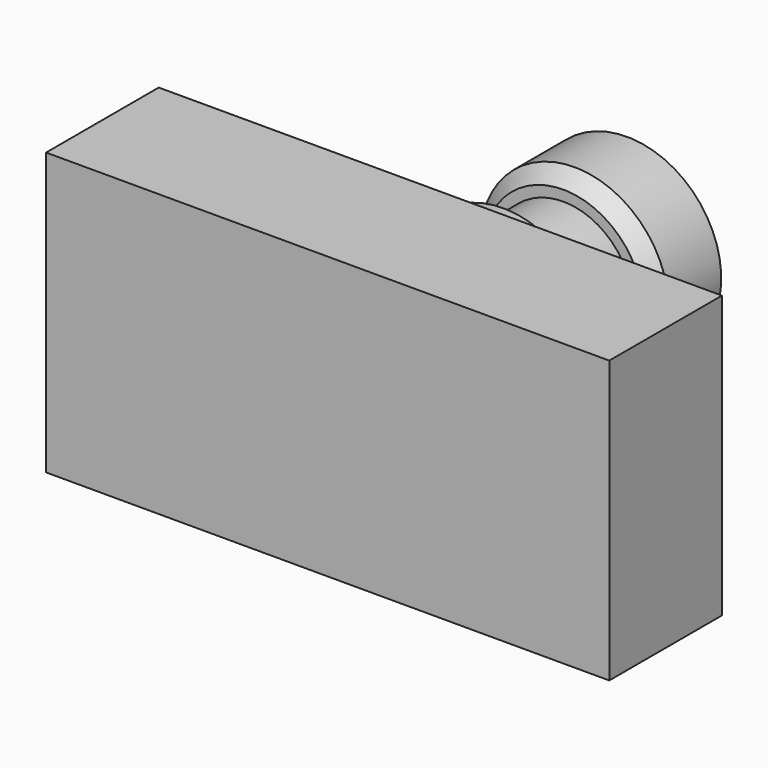
from build123d import *

# Parameters (mm, degrees)
F0_W     = 101.6
F0_H     = 50.8
F1_DEPTH = 25.4
F2_R     = 6.35
F3_DEPTH = 12.7
F6_SIZE  = 2.54


with BuildPart() as f1:
    # F0 (on Front) → F1 (new body)
    with BuildSketch(Plane.XZ):
        Rectangle(F0_W, F0_H)
    extrude(amount=F1_DEPTH)

    # F2 (on face) → F3 (cut)
    with BuildSketch(Plane(origin=(0, 0, 0), x_dir=(-1, 0, 0), z_dir=(0, 1, 0))):
        with Locations((31.75, -12.7)):
            Circle(F2_R)
        with Locations((-31.75, 12.7)):
            Circle(F2_R)
        with Locations((-31.75, -12.7)):
            Circle(F2_R)
        with Locations((31.75, 12.7)):
            Circle(F2_R)
    extrude(amount=-F3_DEPTH, mode=Mode.SUBTRACT)

    # F4 (on Top) → F5 (revolve)
    with BuildSketch(Plane.XY):
        Polygon((-16.995588, 0), (0, 0), (0, 42.096764), (-16.995588, 42.096764), (-16.995588, 27.715884), (-12.550589, 27.715884), (-12.550589, 16.734118), (-16.995588, 16.734118), align=None)
    revolve(axis=Axis((0, 21.048382, 0), (0, 1, 0)))

    # F6
    f6_edges = [f1.edges().sort_by_distance(p)[0] for p in [
        (16.995588, 16.734118, 0),
        (16.995588, 27.715884, 0),
    ]]
    chamfer(f6_edges, length=F6_SIZE)


solid = f1.part
